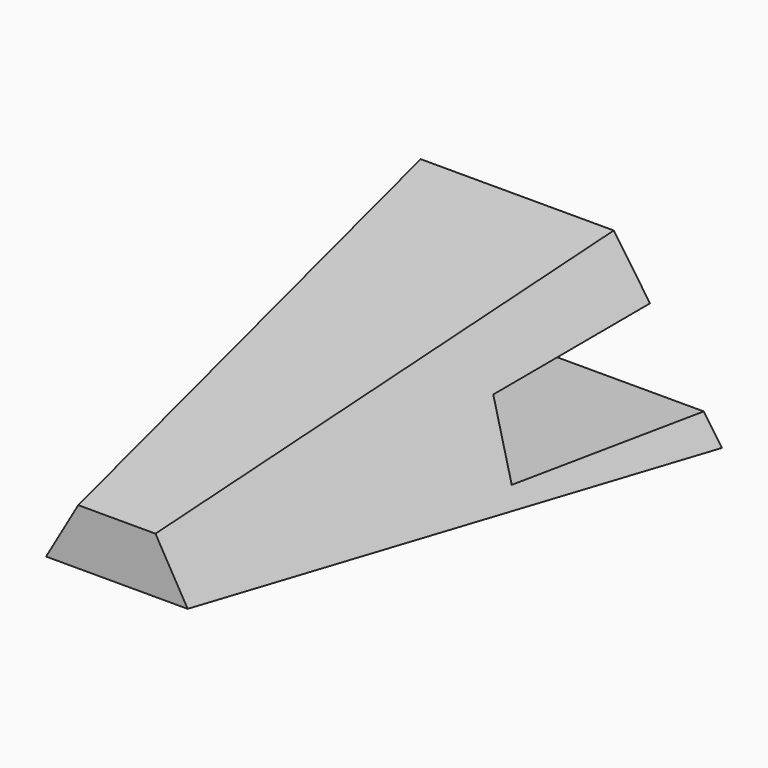
from build123d import *


with BuildPart() as f6:
    # F5 (on face) → F6 section 0
    with BuildSketch(Plane(origin=(0, -2.86481, -0.250638), x_dir=(-1, 0, 0), z_dir=(0, 0.996195, 0.087156))):
        Polygon((-38.1, 32.87001), (-76.2, -32.87001), (76.2, -32.87001), (38.1, 32.87001), align=None)
    # F2 (on offset) → F6 section 1
    with BuildSketch(Plane.XZ.offset(203.2)):
        Polygon((-15.24, 0), (-27.94, -21.997045), (27.94, -21.997045), (15.24, 0), align=None)
    loft()

    # F10 (on face) → F11 section 0
    with BuildSketch(Plane(origin=(0, -65.596307, 17.576477), x_dir=(1, 0, 0), z_dir=(0, -0.965926, 0.258819))):
        Polygon((-76.2, -40.969525), (76.2, -40.969525), (60.96, -15.472508), (-60.96, -15.472508), align=None)
    # F3 (on Front) → F11 section 1
    with BuildSketch(Plane.XZ):
        Polygon((76.2, -21.997045), (57.15, 10.998523), (-57.15, 10.998523), (-76.2, -21.997045), align=None)
    loft(mode=Mode.SUBTRACT)


solid = f6.part
